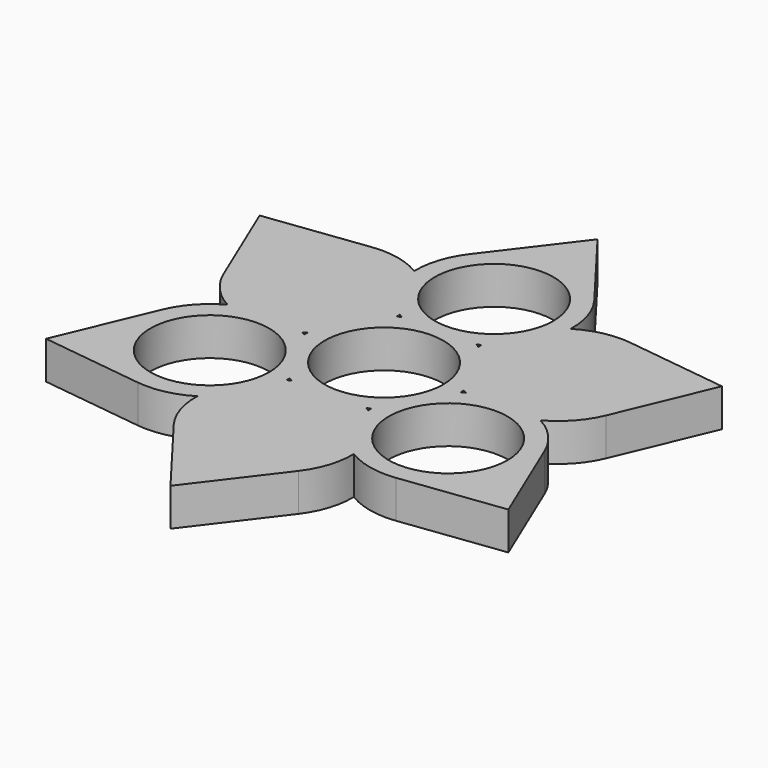
from build123d import *

# Parameters (mm, degrees)
F1_R     = 10.9855
F2_DEPTH = 7


with BuildPart() as f2:
    # F1 (on Top) → F2 (new body)
    with BuildSketch(Plane.XY):
        with BuildLine():
            Line((0, 49.402824), (-11.53062, 34.238811))
            ThreePointArc((-11.53062, 34.238811), (-13.788031, 29.91171), (-14.480236, 25.080504))
            ThreePointArc((-14.480236, 25.080504), (-19.010285, 26.89664), (-23.88637, 27.105215))
            Line((-23.88637, 27.105215), (-42.784101, 24.701412))
            Line((-42.784101, 24.701412), (-35.41699, 7.133595))
            ThreePointArc((-35.41699, 7.133595), (-32.798317, 3.01507), (-28.960471, 0))
            ThreePointArc((-28.960471, 0), (-32.798317, -3.01507), (-35.41699, -7.133595))
            Line((-35.41699, -7.133595), (-42.784101, -24.701412))
            Line((-42.784101, -24.701412), (-23.88637, -27.105215))
            ThreePointArc((-23.88637, -27.105215), (-19.010285, -26.89664), (-14.480236, -25.080504))
            ThreePointArc((-14.480236, -25.080504), (-13.788031, -29.91171), (-11.53062, -34.238811))
            Line((-11.53062, -34.238811), (0, -49.402824))
            Line((0, -49.402824), (11.53062, -34.238811))
            ThreePointArc((11.53062, -34.238811), (13.788031, -29.91171), (14.480236, -25.080504))
            ThreePointArc((14.480236, -25.080504), (19.010285, -26.89664), (23.88637, -27.105215))
            Line((23.88637, -27.105215), (42.784101, -24.701412))
            Line((42.784101, -24.701412), (35.41699, -7.133595))
            ThreePointArc((35.41699, -7.133595), (32.798317, -3.01507), (28.960471, 0))
            ThreePointArc((28.960471, 0), (32.798317, 3.01507), (35.41699, 7.133595))
            Line((35.41699, 7.133595), (42.784101, 24.701412))
            Line((42.784101, 24.701412), (23.88637, 27.105215))
            ThreePointArc((23.88637, 27.105215), (19.010285, 26.89664), (14.480236, 25.080504))
            ThreePointArc((14.480236, 25.080504), (13.788031, 29.91171), (11.53062, 34.238811))
            Line((11.53062, 34.238811), (0, 49.402824))
        make_face()
        with Locations((-22.058533, -12.7355)):
            Circle(F1_R, mode=Mode.SUBTRACT)
        with BuildLine():
            ThreePointArc((-7.578297, -12.345004), (-7.24275, -12.544811), (-6.901938, -12.7355))
            ThreePointArc((-6.901938, -12.7355), (-7.24275, -12.926189), (-7.578297, -13.125996))
            ThreePointArc((-7.578297, -13.125996), (-7.573033, -12.7355), (-7.578297, -12.345004))
        make_face(mode=Mode.SUBTRACT)
        with BuildLine():
            ThreePointArc((6.901938, -12.7355), (7.24275, -12.544811), (7.578297, -12.345004))
            ThreePointArc((7.578297, -12.345004), (7.573033, -12.7355), (7.578297, -13.125996))
            ThreePointArc((7.578297, -13.125996), (7.24275, -12.926189), (6.901938, -12.7355))
        make_face(mode=Mode.SUBTRACT)
        with BuildLine():
            ThreePointArc((14.480236, -0.390496), (14.4855, 0), (14.480236, 0.390496))
            ThreePointArc((14.480236, 0.390496), (14.815783, 0.190689), (15.156595, 0))
            ThreePointArc((15.156595, 0), (14.815783, -0.190689), (14.480236, -0.390496))
        make_face(mode=Mode.SUBTRACT)
        with Locations((22.058533, -12.7355)):
            Circle(F1_R, mode=Mode.SUBTRACT)
        with BuildLine():
            ThreePointArc((-14.480236, 0.390496), (-14.4855, 0), (-14.480236, -0.390496))
            ThreePointArc((-14.480236, -0.390496), (-14.815783, -0.190689), (-15.156595, 0))
            ThreePointArc((-15.156595, 0), (-14.815783, 0.190689), (-14.480236, 0.390496))
        make_face(mode=Mode.SUBTRACT)
        with BuildLine():
            ThreePointArc((-7.578297, 13.125996), (-7.24275, 12.926189), (-6.901938, 12.7355))
            ThreePointArc((-6.901938, 12.7355), (-7.24275, 12.544811), (-7.578297, 12.345004))
            ThreePointArc((-7.578297, 12.345004), (-7.573033, 12.7355), (-7.578297, 13.125996))
        make_face(mode=Mode.SUBTRACT)
        Circle(F1_R, mode=Mode.SUBTRACT)
        with BuildLine():
            ThreePointArc((7.578297, 12.345004), (7.24275, 12.544811), (6.901938, 12.7355))
            ThreePointArc((6.901938, 12.7355), (7.24275, 12.926189), (7.578297, 13.125996))
            ThreePointArc((7.578297, 13.125996), (7.573033, 12.7355), (7.578297, 12.345004))
        make_face(mode=Mode.SUBTRACT)
        with Locations((0, 25.471)):
            Circle(F1_R, mode=Mode.SUBTRACT)
    extrude(amount=F2_DEPTH)


solid = f2.part
